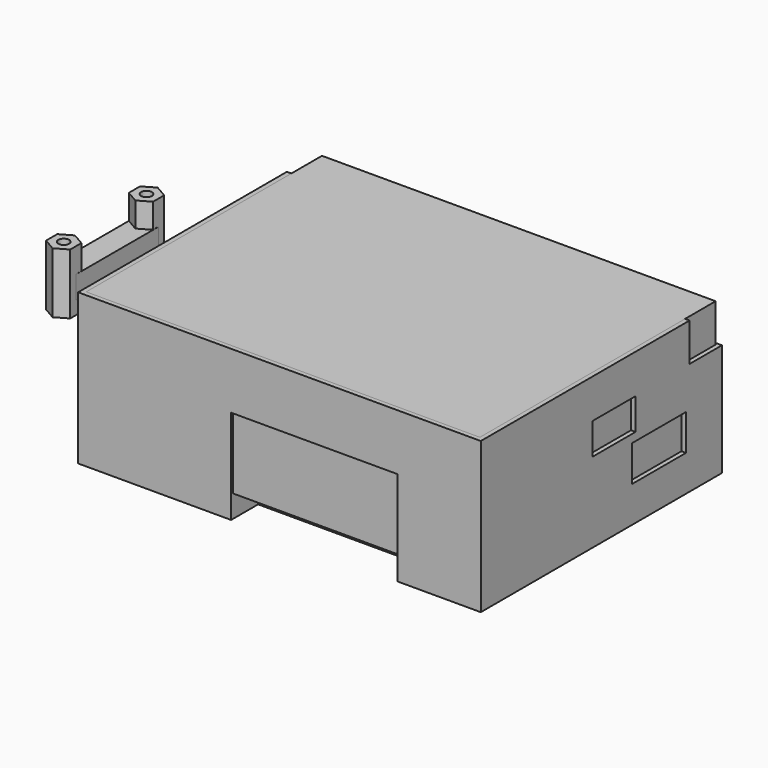
from build123d import *

# Parameters (mm, degrees)
BOX_W                    = 85.5
BOX_H                    = 49
BOX_DEPTH                = 17
BOX001_W                 = 73.2
BOX001_H                 = 32
BOX001_DEPTH             = 27.5
BOX003_W                 = 87.5
BOX003_H                 = 66
BOX003_DEPTH             = 28.5
BOX027_W                 = 5
BOX027_H                 = 6
BOX027_DEPTH             = 10
BOX026_W                 = 5
BOX026_H                 = 6
BOX026_DEPTH             = 10
BOX025_W                 = 1.5
BOX025_H                 = 10.3
BOX025_DEPTH             = 12.5
BOX024_W                 = 1.5
BOX024_H                 = 10.3
BOX024_DEPTH             = 12.5
BOX022_W                 = 51
BOX022_H                 = 14.5
BOX022_DEPTH             = 14.5
BOX023_W                 = 57.5
BOX023_H                 = 16.5
BOX023_DEPTH             = 15.5
BOX028_W                 = 10
BOX028_H                 = 12
BOX028_DEPTH             = 7
BOX029_W                 = 10
BOX029_H                 = 12
BOX029_DEPTH             = 7
BOX006_W                 = 10
BOX006_H                 = 15
BOX006_DEPTH             = 8
CYLINDER003_R            = 3.1
CYLINDER003_DEPTH        = 5
CYLINDER001_R            = 1.5
CYLINDER001_DEPTH        = 10
CYLINDER_R               = 1.5
CYLINDER_DEPTH           = 10
CYLINDER002_R            = 3.1
CYLINDER002_DEPTH        = 5
BOX002_W                 = 87.5
BOX002_H                 = 7.5
BOX002_DEPTH             = 13.3
BOX005_W                 = 37
BOX005_H                 = 7.5
BOX005_DEPTH             = 21
BOX004_W                 = 87.5
BOX004_H                 = 57.5
BOX004_DEPTH             = 27.5
BOX021_W                 = 87.5
BOX021_H                 = 16.5
BOX021_DEPTH             = 32.5
CYLINDER006_R            = 1.5
CYLINDER006_DEPTH        = 10
CYLINDER007_R            = 3.1
CYLINDER007_DEPTH        = 5
CYLINDER008_R            = 3.1
CYLINDER008_DEPTH        = 5
CYLINDER009_R            = 1.5
CYLINDER009_DEPTH        = 10
BOX031_W                 = 89.5
BOX031_H                 = 9
BOX031_DEPTH             = 8.5
BOX014_W                 = 89.5
BOX014_H                 = 67
BOX014_DEPTH             = 33.5
CYLINDER005_R            = 1.2
CYLINDER005_DEPTH        = 9
CYLINDER010_R            = 1.4
CYLINDER010_DEPTH        = 4.5
CYLINDER011_R            = 1.4
CYLINDER011_DEPTH        = 4.5
CYLINDER004_R            = 1.2
CYLINDER004_DEPTH        = 9
PRISM001_DEPTH           = 13.5
PRISM001_PLACEMENT_ANGLE = 30
PRISM_DEPTH              = 13.5
PRISM_PLACEMENT_ANGLE    = 30
BOX030_W                 = 5.4
BOX030_H                 = 23
BOX030_DEPTH             = 5


with BuildPart() as cube_screen:
    # Box → Box (new body)
    with BuildSketch(Plane(origin=(0, 7, 0), x_dir=(1, 0, 0), z_dir=(0, 0, 1))):
        with Locations((42.75, 24.5)):
            Rectangle(BOX_W, BOX_H)
    extrude(amount=BOX_DEPTH)


with BuildPart() as obj1:
    # Box001 → Box001 (new body)
    with BuildSketch(Plane(origin=(4.8, 24, -10.5), x_dir=(1, 0, 0), z_dir=(0, 0, 1))):
        with Locations((36.6, 16)):
            Rectangle(BOX001_W, BOX001_H)
    extrude(amount=BOX001_DEPTH)


with BuildPart() as cube_outer_thinner:
    # Box003 → Box003 (new body)
    with BuildSketch(Plane(origin=(-1, -8, -11.5), x_dir=(1, 0, 0), z_dir=(0, 0, 1))):
        with Locations((43.75, 33)):
            Rectangle(BOX003_W, BOX003_H)
    extrude(amount=BOX003_DEPTH)


with BuildPart() as cube003_plus_end_gap:
    # Box027 → Box027 (new body)
    with BuildSketch(Plane(origin=(47.5, 5.1, 4.5), x_dir=(1, 0, 0), z_dir=(0, 0, 1))):
        with Locations((2.5, 3)):
            Rectangle(BOX027_W, BOX027_H)
    extrude(amount=BOX027_DEPTH)


with BuildPart() as cube002_minus_spring_gap:
    # Box026 → Box026 (new body)
    with BuildSketch(Plane(origin=(0, 5.1, 4.5), x_dir=(1, 0, 0), z_dir=(0, 0, 1))):
        with Locations((2.5, 3)):
            Rectangle(BOX026_W, BOX026_H)
    extrude(amount=BOX026_DEPTH)


with BuildPart() as cube003_plus_end:
    # Box025 → Box025 (new body)
    with BuildSketch(Plane(origin=(52.5, 3.1, 2), x_dir=(1, 0, 0), z_dir=(0, 0, 1))):
        with Locations((0.75, 5.15)):
            Rectangle(BOX025_W, BOX025_H)
    extrude(amount=BOX025_DEPTH)


with BuildPart() as cube002_minus_spring:
    # Box024 → Box024 (new body)
    with BuildSketch(Plane(origin=(-1.5, 3.1, 2), x_dir=(1, 0, 0), z_dir=(0, 0, 1))):
        with Locations((0.75, 5.15)):
            Rectangle(BOX024_W, BOX024_H)
    extrude(amount=BOX024_DEPTH)


with BuildPart() as cube:
    # Box022 → Box022 (new body)
    with BuildSketch(Plane(origin=(1, 1, 0), x_dir=(1, 0, 0), z_dir=(0, 0, 1))):
        with Locations((25.5, 7.25)):
            Rectangle(BOX022_W, BOX022_H)
    extrude(amount=BOX022_DEPTH)


with BuildPart() as cut004:
    # Box023 → Box023 (new body)
    with BuildSketch(Plane(origin=(-2.5, 0, -1), x_dir=(1, 0, 0), z_dir=(0, 0, 1))):
        with Locations((28.75, 8.25)):
            Rectangle(BOX023_W, BOX023_H)
    extrude(amount=BOX023_DEPTH)

    # Cut: cut Cube
    add(cube.part, mode=Mode.SUBTRACT)

    # Cut001: cut Cube002(minus_spring)
    add(cube002_minus_spring.part, mode=Mode.SUBTRACT)

    # Cut002: cut Cube003(plus_end)
    add(cube003_plus_end.part, mode=Mode.SUBTRACT)

    # Cut003: cut Cube002(minus_spring_gap)
    add(cube002_minus_spring_gap.part, mode=Mode.SUBTRACT)

    # Cut004: cut Cube003(plus_end_gap)
    add(cube003_plus_end_gap.part, mode=Mode.SUBTRACT)


with BuildPart() as cut004_1:
    # Cut004 placement: moved
    add(cut004.part.moved(Location((1.5, 0, -15.5))))


with BuildPart() as cube_micro_usb_port:
    # Box028 → Box028 (new body)
    with BuildSketch(Plane(origin=(77.5, 22.5, 1.3), x_dir=(1, 0, 0), z_dir=(0, 0, 1))):
        with Locations((5, 6)):
            Rectangle(BOX028_W, BOX028_H)
    extrude(amount=BOX028_DEPTH)


with BuildPart() as obj2:
    # Box029 → Box029 (new body)
    with BuildSketch(Plane(origin=(-2, 37, -9.7), x_dir=(1, 0, 0), z_dir=(0, 0, 1))):
        with Locations((5, 6)):
            Rectangle(BOX029_W, BOX029_H)
    extrude(amount=BOX029_DEPTH)


with BuildPart() as cube_usb_port:
    # Box006 → Box006 (new body)
    with BuildSketch(Plane(origin=(77.5, 33.5, -8.5), x_dir=(1, 0, 0), z_dir=(0, 0, 1))):
        with Locations((5, 7.5)):
            Rectangle(BOX006_W, BOX006_H)
    extrude(amount=BOX006_DEPTH)


with BuildPart() as cylinder001_left_clearance_bottom:
    # Cylinder003 → Cylinder003 (new body)
    with BuildSketch(Plane(origin=(8.44, 52.95, -16.5), x_dir=(1, 0, 0), z_dir=(0, 0, 1))):
        Circle(CYLINDER003_R)
    extrude(amount=CYLINDER003_DEPTH)


with BuildPart() as cylinder001_left_shaft_bottom:
    # Cylinder001 → Cylinder001 (new body)
    with BuildSketch(Plane(origin=(8.44, 52.95, -17), x_dir=(1, 0, 0), z_dir=(0, 0, 1))):
        Circle(CYLINDER001_R)
    extrude(amount=CYLINDER001_DEPTH)


with BuildPart() as cylinder_right_shaft_bottom:
    # Cylinder → Cylinder (new body)
    with BuildSketch(Plane(origin=(66.6, 52.95, -17), x_dir=(1, 0, 0), z_dir=(0, 0, 1))):
        Circle(CYLINDER_R)
    extrude(amount=CYLINDER_DEPTH)


with BuildPart() as cylinder002_right_clearance_bottom:
    # Cylinder002 → Cylinder002 (new body)
    with BuildSketch(Plane(origin=(66.6, 52.95, -16.5), x_dir=(1, 0, 0), z_dir=(0, 0, 1))):
        Circle(CYLINDER002_R)
    extrude(amount=CYLINDER002_DEPTH)


with BuildPart() as cube_screen_to_pcb:
    # Box002 → Box002 (new body)
    with BuildSketch(Plane(origin=(-1, -7.5, 3.7), x_dir=(1, 0, 0), z_dir=(0, 0, 1))):
        with Locations((43.75, 3.75)):
            Rectangle(BOX002_W, BOX002_H)
    extrude(amount=BOX002_DEPTH)


with BuildPart() as cube_screen_to_pcb_cutout:
    # Box005 → Box005 (new body)
    with BuildSketch(Plane(origin=(32, -8.5, -16.5), x_dir=(1, 0, 0), z_dir=(0, 0, 1))):
        with Locations((18.5, 3.75)):
            Rectangle(BOX005_W, BOX005_H)
    extrude(amount=BOX005_DEPTH)


with BuildPart() as cube_screen_cutout:
    # Box004 → Box004 (new body)
    with BuildSketch(Plane(origin=(-1, 0, -10.5), x_dir=(1, 0, 0), z_dir=(0, 0, 1))):
        with Locations((43.75, 28.75)):
            Rectangle(BOX004_W, BOX004_H)
    extrude(amount=BOX004_DEPTH)


with BuildPart() as box021:
    # Box021 → Box021 (new body)
    with BuildSketch(Plane(origin=(-1, 0, -15.5), x_dir=(1, 0, 0), z_dir=(0, 0, 1))):
        with Locations((43.75, 8.25)):
            Rectangle(BOX021_W, BOX021_H)
    extrude(amount=BOX021_DEPTH)


with BuildPart() as cylinder001_left_shaft_top:
    # Cylinder006 → Cylinder006 (new body)
    with BuildSketch(Plane(origin=(8.44, 29.95, -17), x_dir=(1, 0, 0), z_dir=(0, 0, 1))):
        Circle(CYLINDER006_R)
    extrude(amount=CYLINDER006_DEPTH)


with BuildPart() as cylinder001_left_clearance_top:
    # Cylinder007 → Cylinder007 (new body)
    with BuildSketch(Plane(origin=(8.44, 29.95, -16.5), x_dir=(1, 0, 0), z_dir=(0, 0, 1))):
        Circle(CYLINDER007_R)
    extrude(amount=CYLINDER007_DEPTH)


with BuildPart() as cylinder002_right_clearance_top:
    # Cylinder008 → Cylinder008 (new body)
    with BuildSketch(Plane(origin=(66.6, 29.95, -16.5), x_dir=(1, 0, 0), z_dir=(0, 0, 1))):
        Circle(CYLINDER008_R)
    extrude(amount=CYLINDER008_DEPTH)


with BuildPart() as cylinder_right_shaft_top:
    # Cylinder009 → Cylinder009 (new body)
    with BuildSketch(Plane(origin=(66.6, 29.95, -17), x_dir=(1, 0, 0), z_dir=(0, 0, 1))):
        Circle(CYLINDER009_R)
    extrude(amount=CYLINDER009_DEPTH)


with BuildPart() as cube002_gpio_cutout:
    # Box031 → Box031 (new body)
    with BuildSketch(Plane(origin=(-2, 49.5, 8.5), x_dir=(1, 0, 0), z_dir=(0, 0, 1))):
        with Locations((44.75, 4.5)):
            Rectangle(BOX031_W, BOX031_H)
    extrude(amount=BOX031_DEPTH)


with BuildPart() as cut022:
    # Box014 → Box014 (new body)
    with BuildSketch(Plane(origin=(-2, -8.5, -16.5), x_dir=(1, 0, 0), z_dir=(0, 0, 1))):
        with Locations((44.75, 33.5)):
            Rectangle(BOX014_W, BOX014_H)
    extrude(amount=BOX014_DEPTH)

    # Cut007: cut Cube002(GPIO_cutout)
    add(cube002_gpio_cutout.part, mode=Mode.SUBTRACT)

    # Cut008: cut Cylinder(right_shaft_top)
    add(cylinder_right_shaft_top.part, mode=Mode.SUBTRACT)

    # Cut009: cut Cylinder002(right_clearance_top)
    add(cylinder002_right_clearance_top.part, mode=Mode.SUBTRACT)

    # Cut010: cut Cylinder001(left_clearance_top)
    add(cylinder001_left_clearance_top.part, mode=Mode.SUBTRACT)

    # Cut011: cut Cylinder001(left_shaft_top)
    add(cylinder001_left_shaft_top.part, mode=Mode.SUBTRACT)

    # Cut012: cut Box021
    add(box021.part, mode=Mode.SUBTRACT)

    # Cut013: cut Cube(screen_cutout)
    add(cube_screen_cutout.part, mode=Mode.SUBTRACT)

    # Cut014: cut Cube(screen_to_pcb_cutout)
    add(cube_screen_to_pcb_cutout.part, mode=Mode.SUBTRACT)

    # Cut015: cut Cube(screen_to_pcb)
    add(cube_screen_to_pcb.part, mode=Mode.SUBTRACT)

    # Cut016: cut Cylinder002(right_clearance_bottom)
    add(cylinder002_right_clearance_bottom.part, mode=Mode.SUBTRACT)

    # Cut017: cut Cylinder(right_shaft_bottom
    add(cylinder_right_shaft_bottom.part, mode=Mode.SUBTRACT)

    # Cut018: cut Cylinder001(left_shaft_bottom)
    add(cylinder001_left_shaft_bottom.part, mode=Mode.SUBTRACT)

    # Cut019: cut Cylinder001(left_clearance_bottom)
    add(cylinder001_left_clearance_bottom.part, mode=Mode.SUBTRACT)

    # Cut020: cut Cube(usb_port)
    add(cube_usb_port.part, mode=Mode.SUBTRACT)

    # Cut021: cut obj2)
    add(obj2.part, mode=Mode.SUBTRACT)

    # Cut022: cut Cube(micro_usb_port)
    add(cube_micro_usb_port.part, mode=Mode.SUBTRACT)


with BuildPart() as cylinder001_bottom_m2:
    # Cylinder005 → Cylinder005 (new body)
    with BuildSketch(Plane(origin=(-20, 33, 4.5), x_dir=(1, 0, 0), z_dir=(0, 0, 1))):
        Circle(CYLINDER005_R)
    extrude(amount=CYLINDER005_DEPTH)


with BuildPart() as cylinder_top_m3:
    # Cylinder010 → Cylinder010 (new body)
    with BuildSketch(Plane(origin=(-20, 10, 0), x_dir=(1, 0, 0), z_dir=(0, 0, 1))):
        Circle(CYLINDER010_R)
    extrude(amount=CYLINDER010_DEPTH)


with BuildPart() as cylinder001_bottom_m3:
    # Cylinder011 → Cylinder011 (new body)
    with BuildSketch(Plane(origin=(-20, 33, 0), x_dir=(1, 0, 0), z_dir=(0, 0, 1))):
        Circle(CYLINDER011_R)
    extrude(amount=CYLINDER011_DEPTH)


with BuildPart() as cylinder_top_m2:
    # Cylinder004 → Cylinder004 (new body)
    with BuildSketch(Plane(origin=(-20, 10, 4.5), x_dir=(1, 0, 0), z_dir=(0, 0, 1))):
        Circle(CYLINDER004_R)
    extrude(amount=CYLINDER004_DEPTH)


with BuildPart() as prism001_bottom:
    # Prism001 → Prism001 (new body)
    with BuildSketch(Plane.XY):
        Polygon((3.1, 0), (1.55, 2.684679), (-1.55, 2.684679), (-3.1, 0), (-1.55, -2.684679), (1.55, -2.684679), align=None)
    extrude(amount=PRISM001_DEPTH)


with BuildPart() as prism001_bottom_1:
    # Prism001 placement: moved
    add(prism001_bottom.part.moved(Location((-20, 33, 0))).rotate(Axis((-20, 33, 0), (0, 0, 1)), PRISM001_PLACEMENT_ANGLE))


with BuildPart() as prism_top:
    # Prism → Prism (new body)
    with BuildSketch(Plane.XY):
        Polygon((3.1, 0), (1.55, 2.684679), (-1.55, 2.684679), (-3.1, 0), (-1.55, -2.684679), (1.55, -2.684679), align=None)
    extrude(amount=PRISM_DEPTH)


with BuildPart() as prism_top_1:
    # Prism placement: moved
    add(prism_top.part.moved(Location((-20, 10, 0))).rotate(Axis((-20, 10, 0), (0, 0, 1)), PRISM_PLACEMENT_ANGLE))


with BuildPart() as cut026:
    # Box030 → Box030 (new body)
    with BuildSketch(Plane(origin=(-22.69, 10, 3), x_dir=(1, 0, 0), z_dir=(0, 0, 1))):
        with Locations((2.7, 11.5)):
            Rectangle(BOX030_W, BOX030_H)
    extrude(amount=BOX030_DEPTH)

    # Fusion: union Prism001(bottom), Prism(top)
    add(prism001_bottom_1.part)
    add(prism_top_1.part)

    # Cut023: cut Cylinder(top_m2)
    add(cylinder_top_m2.part, mode=Mode.SUBTRACT)

    # Cut024: cut Cylinder001(bottom_m3)
    add(cylinder001_bottom_m3.part, mode=Mode.SUBTRACT)

    # Cut025: cut Cylinder(top_m3)
    add(cylinder_top_m3.part, mode=Mode.SUBTRACT)

    # Cut026: cut Cylinder001(bottom_m2)
    add(cylinder001_bottom_m2.part, mode=Mode.SUBTRACT)


solid = Compound([cube_screen.part, obj1.part, cube_outer_thinner.part, cut004_1.part, cut022.part, cut026.part])
